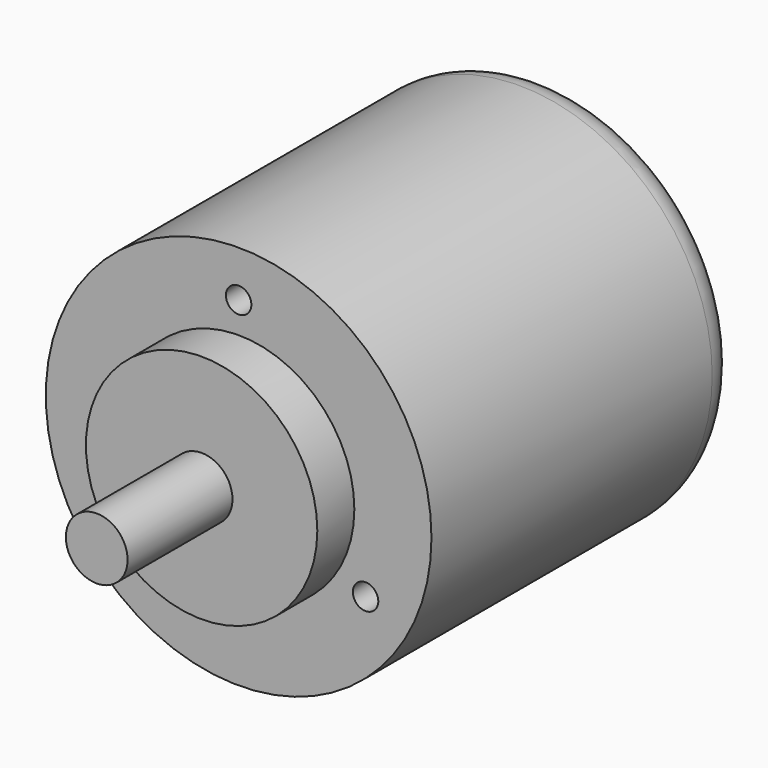
from build123d import *

# Parameters (mm, degrees)
F0_R     = 25
F1_DEPTH = 50
F2_R     = 4.5
F3_R     = 15
F4_DEPTH = 6
F5_D     = 3.3
F5_DEPTH = 8
F5_TIP   = 0.9914200214
F6_R     = 4
F7_DEPTH = 17


with BuildPart() as f1:
    # F0 (on Front) → F1 (new body)
    with BuildSketch(Plane.XZ):
        Circle(F0_R)
    extrude(amount=-F1_DEPTH)

    # F2
    f2_edges = [f1.edges().sort_by_distance(p)[0] for p in [
        (-25, 50, 0),
    ]]
    fillet(f2_edges, radius=F2_R)

    # F3 (on face) → F4 (join)
    with BuildSketch(Plane.XZ):
        Circle(F3_R)
    extrude(amount=F4_DEPTH)

    # F5
    with Locations(Plane.XZ):
        with Locations((0, 19), (-16.4544826719, -9.5), (16.4544826719, -9.5)):
            Hole(F5_D / 2, depth=F5_DEPTH)
            with Locations((0, 0, -(F5_DEPTH + F5_TIP / 2))):  # 118° drill point
                Cone(0, F5_D / 2, F5_TIP, mode=Mode.SUBTRACT)

    # F6 (on face) → F7 (join)
    with BuildSketch(Plane.XZ.offset(6)):
        Circle(F6_R)
    extrude(amount=F7_DEPTH)


solid = f1.part
